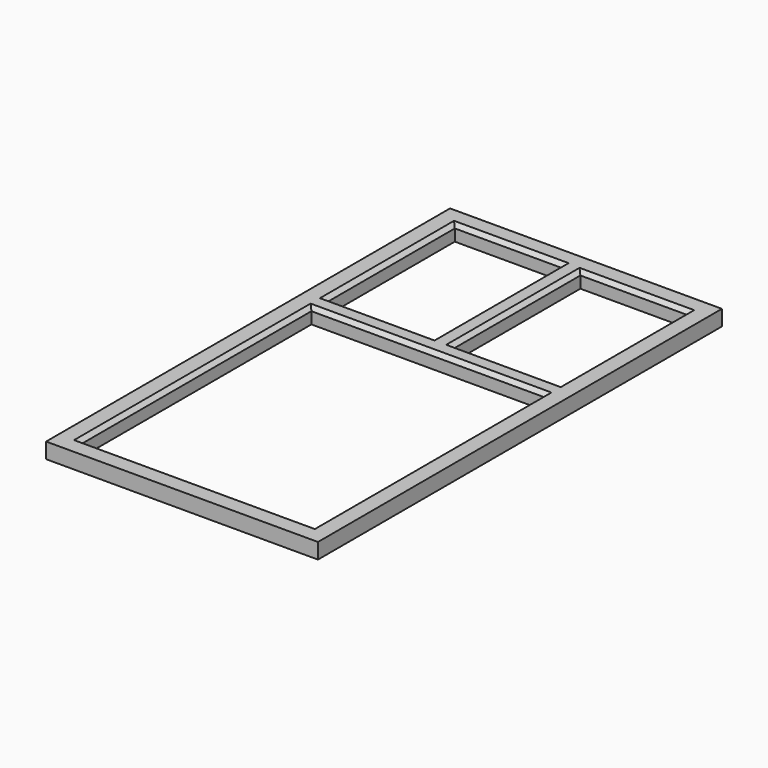
from build123d import *

# Parameters (mm, degrees)
F0_W     = 700
F0_H     = 1300
F0_W_2   = 600
F0_H_2   = 741.365468
F0_W_3   = 275
F0_H_3   = 411.491126
F0_H_4   = 409.27878
F1_DEPTH = 40
F2_SIZE  = 10


with BuildPart() as f1:
    # F0 (on Top) → F1 (new body)
    with BuildSketch(Plane.XY):
        with Locations((-1.148704, 142.788631)):
            Rectangle(F0_W, F0_H)
        with Locations((-1.148704, -86.528635)):
            Rectangle(F0_W_2, F0_H_2, mode=Mode.SUBTRACT)
        with Locations((-163.648704, 539.899662)):
            Rectangle(F0_W_3, F0_H_3, mode=Mode.SUBTRACT)
        with Locations((161.351296, 538.793489)):
            Rectangle(F0_W_3, F0_H_4, mode=Mode.SUBTRACT)
    extrude(amount=F1_DEPTH)

    # F2
    f2_edges = [f1.edges().sort_by_distance(p)[0] for p in [
        (-1.148704, -457.211369, 40),
        (298.851296, -86.528635, 40),
        (-1.148704, 284.154099, 40),
        (-301.148704, -86.528635, 40),
        (23.851296, 538.793489, 40),
        (161.351296, 334.154099, 40),
        (-163.648704, 334.154099, 40),
        (-26.148704, 539.899662, 40),
        (298.851296, 538.793489, 40),
        (-301.148704, 539.899662, 40),
        (-163.648704, 745.645225, 40),
        (161.351296, 743.432879, 40),
    ]]
    chamfer(f2_edges, length=F2_SIZE)


solid = f1.part
